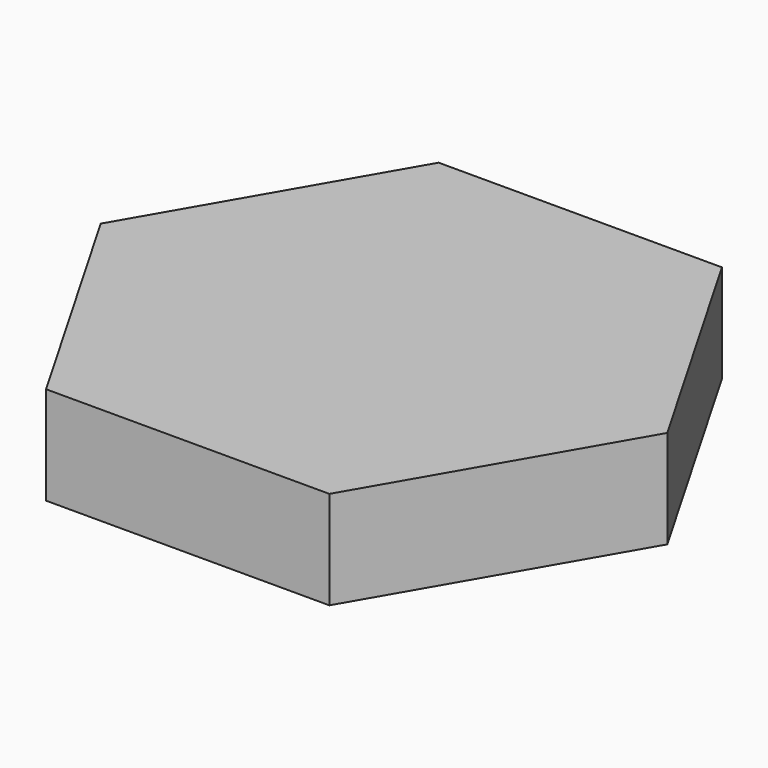
from build123d import *

# Parameters (mm, degrees)
EXTRUDE_DEPTH = 10


with BuildPart() as part:
    # Sketch → Extrude (new body)
    with BuildSketch(Plane.XY):
        Polygon((28.867513, 0), (14.433757, 25), (-14.433757, 25), (-28.867513, 0), (-14.433757, -25), (14.433757, -25), align=None)
    extrude(amount=EXTRUDE_DEPTH)


solid = part.part
